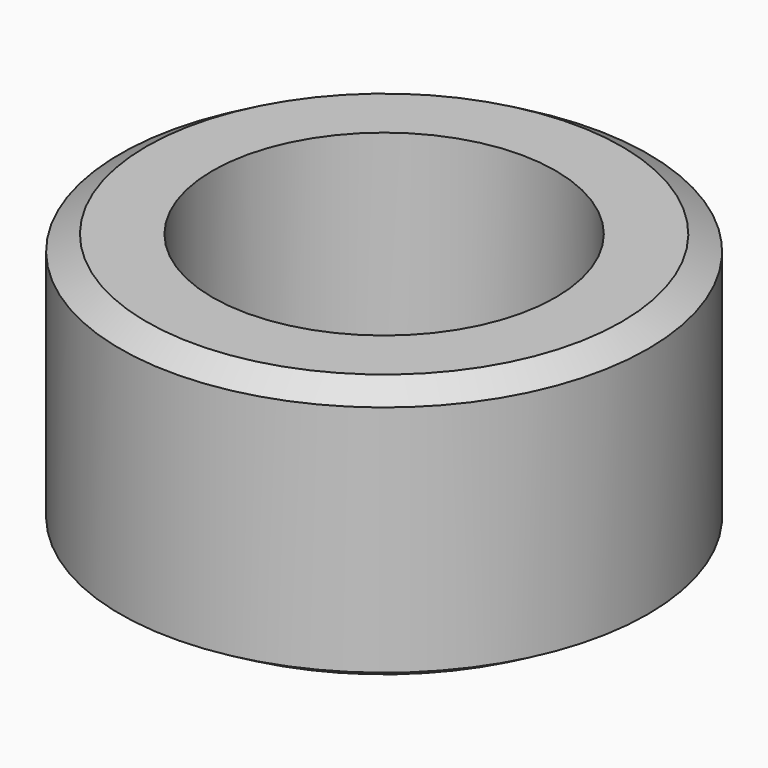
from build123d import *


with BuildPart() as part:
    # Sketch → Revolution (revolve)
    with BuildSketch(Plane.XZ):
        Polygon((6.5, 5), (6.5, -5), (9, -5), (10, -4.42265), (10, 4.42265), (9, 5), align=None)
    revolve(axis=Axis((0, 0, 0), (0, 0, 1)))


solid = part.part
